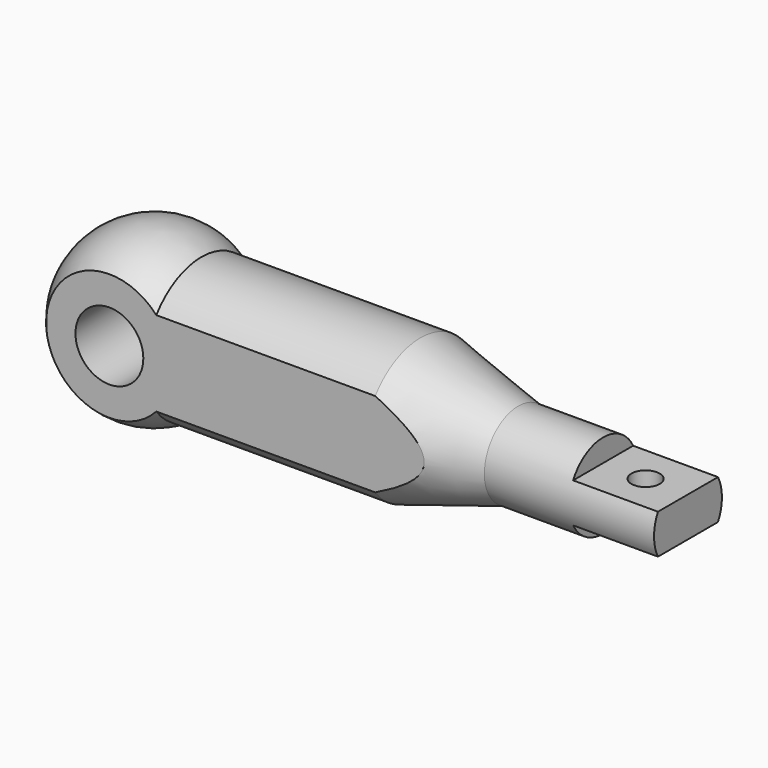
from build123d import *

# Parameters (mm, degrees)
F2_W          = 15
F2_H          = 4
F3_DEPTH      = 15.001
F3_DEPTH_BACK = 15.001
F5_DEPTH      = 109.2926164658
F6_R          = 6
F7_DEPTH      = 20.001
F8_R          = 2.5
F9_DEPTH      = 18.501


with BuildPart() as f1:
    # F0 (on Front) → F1 (revolve)
    with BuildSketch(Plane.XZ):
        with BuildLine():
            ThreePointArc((8.2915619759, 12.5), (-7.0931858273, 13.2169101843), (-15, 0))
            Line((-15, 0), (94.2916164658, 0))
            Line((94.2916164658, 0), (94.2916164658, 7.5))
            Line((94.2916164658, 7.5), (64.2916164658, 7.5))
            Line((64.2916164658, 7.5), (47, 12.5))
            Line((47, 12.5), (8.2915619759, 12.5))
        make_face()
    revolve(axis=Axis((39.6458082329, 0, 0), (-1, 0, 0)))

    # F2 (on Front) → F3 (cut, two sides)
    with BuildSketch(Plane.XZ) as f3_sk:
        with Locations((86.7916164658, 5.5)):
            Rectangle(F2_W, F2_H)
        with Locations((86.7916164658, -5.5)):
            Rectangle(F2_W, F2_H)
    extrude(amount=-F3_DEPTH, mode=Mode.SUBTRACT)
    extrude(f3_sk.sketch, amount=F3_DEPTH_BACK, mode=Mode.SUBTRACT)

    # F4 (on face) → F5 (cut, through all)
    with BuildSketch(Plane.YZ.offset(94.2916164658)):
        with BuildLine():
            ThreePointArc((10, -11.1803398875), (13.6930639376, -6.123724357), (15, 0))
            ThreePointArc((15, 0), (13.6930639376, 6.123724357), (10, 11.1803398875))
            Line((10, 11.1803398875), (10, -11.1803398875))
        make_face()
        with BuildLine():
            Line((-10, -11.1803398875), (-10, 11.1803398875))
            ThreePointArc((-10, 11.1803398875), (-15, 0), (-10, -11.1803398875))
        make_face()
    extrude(amount=-F5_DEPTH, mode=Mode.SUBTRACT)

    # F6 (on face) → F7 (cut, through all)
    with BuildSketch(Plane.XZ.offset(10)):
        Circle(F6_R)
    extrude(amount=-F7_DEPTH, mode=Mode.SUBTRACT)

    # F8 (on face) → F9 (cut, through all)
    with BuildSketch(Plane.XY.offset(3.5)):
        with Locations((86.7916164658, 0)):
            Circle(F8_R)
    extrude(amount=-F9_DEPTH, mode=Mode.SUBTRACT)


solid = f1.part
